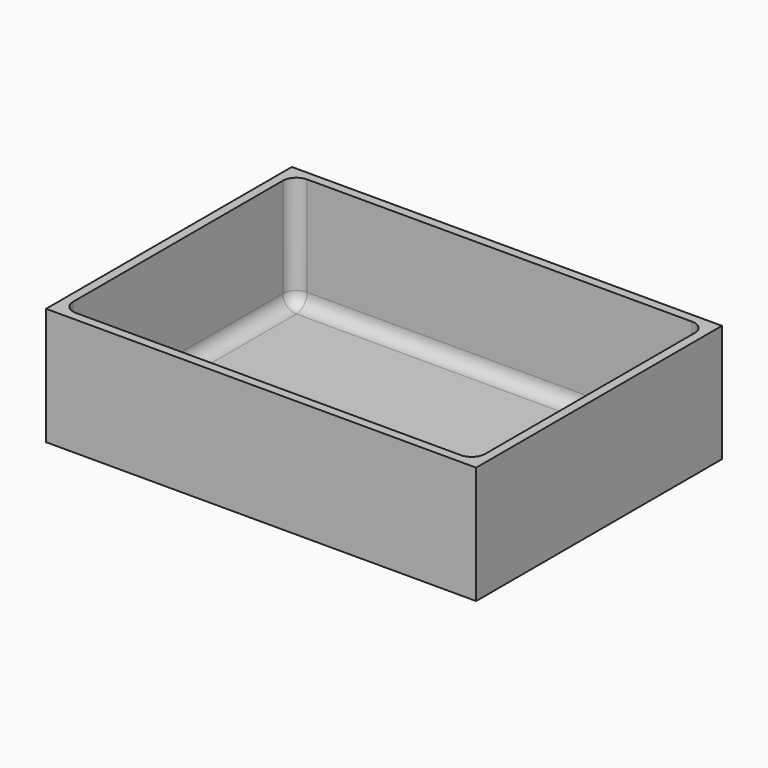
from build123d import *

# Parameters (mm, degrees)
F0_W     = 476
F0_H     = 340
F0_W_2   = 456
F0_H_2   = 320
F1_DEPTH = 125
F2_DEPTH = 5
F3_R     = 15


with BuildPart() as f1:
    # F0 (on Top) → F1 (new body)
    with BuildSketch(Plane.XY):
        with Locations((-152.2744732499, 132.3741256595)):
            Rectangle(F0_W, F0_H)
        with Locations((-152.2744732499, 132.3741256595)):
            Rectangle(F0_W_2, F0_H_2, mode=Mode.SUBTRACT)
    extrude(amount=F1_DEPTH)

    # F0 (on Top) → F2 (join)
    with BuildSketch(Plane.XY):
        with Locations((-152.2744732499, 132.3741256595)):
            Rectangle(F0_W, F0_H)
        with Locations((-152.2744732499, 132.3741256595)):
            Rectangle(F0_W_2, F0_H_2, mode=Mode.SUBTRACT)
        with Locations((-152.2744732499, 132.3741256595)):
            Rectangle(F0_W_2, F0_H_2)
    extrude(amount=-F2_DEPTH)

    # F3
    f3_edges = [f1.edges().sort_by_distance(p)[0] for p in [
        (75.725527, 292.374126, 62.5),
        (-380.274473, 292.374126, 62.5),
        (75.725527, -27.625874, 62.5),
        (-380.274473, -27.625874, 62.5),
        (-152.274473, -27.625874, 0),
        (-380.274473, 132.374126, 0),
        (-152.274473, 292.374126, 0),
        (75.725527, 132.374126, 0),
    ]]
    fillet(f3_edges, radius=F3_R)


solid = f1.part
